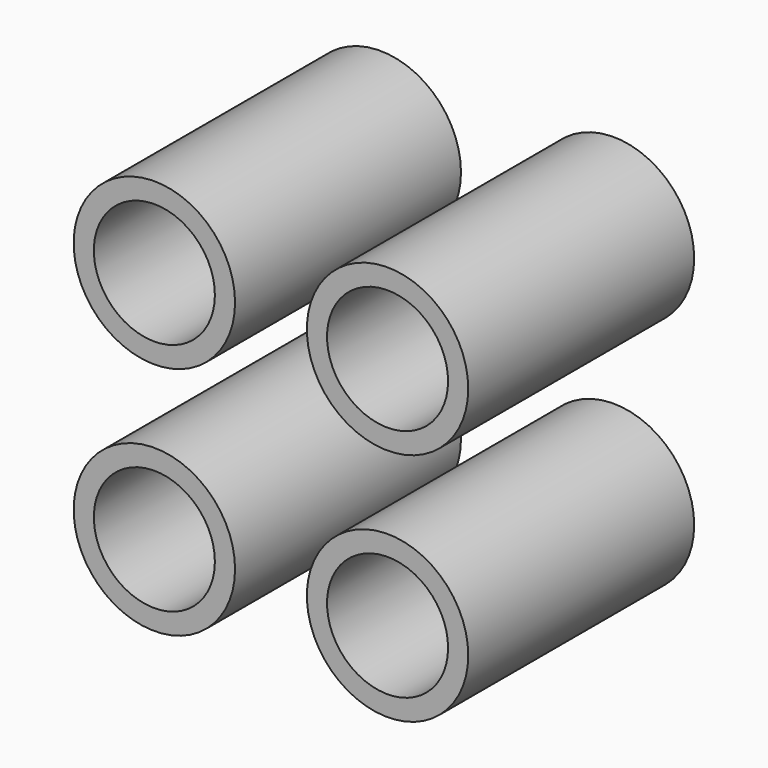
from build123d import *

# Parameters (mm, degrees)
F0_R     = 20
F0_R_2   = 15
F1_DEPTH = 70


with BuildPart() as f1:
    # F0 (on Front) → F1 (new body)
    with BuildSketch(Plane.XZ):
        with Locations((-28.213074, 28.009528)):
            Circle(F0_R)
        with Locations((-28.213074, 28.009528)):
            Circle(F0_R_2, mode=Mode.SUBTRACT)
        with Locations((29.586622, 28.009528)):
            Circle(F0_R)
        with Locations((29.586622, 28.009528)):
            Circle(F0_R_2, mode=Mode.SUBTRACT)
        with Locations((29.586622, -30.165494)):
            Circle(F0_R)
        with Locations((29.586622, -30.165494)):
            Circle(F0_R_2, mode=Mode.SUBTRACT)
        with Locations((-28.213074, -30.165494)):
            Circle(F0_R)
        with Locations((-28.213074, -30.165494)):
            Circle(F0_R_2, mode=Mode.SUBTRACT)
    extrude(amount=F1_DEPTH)


solid = f1.part
